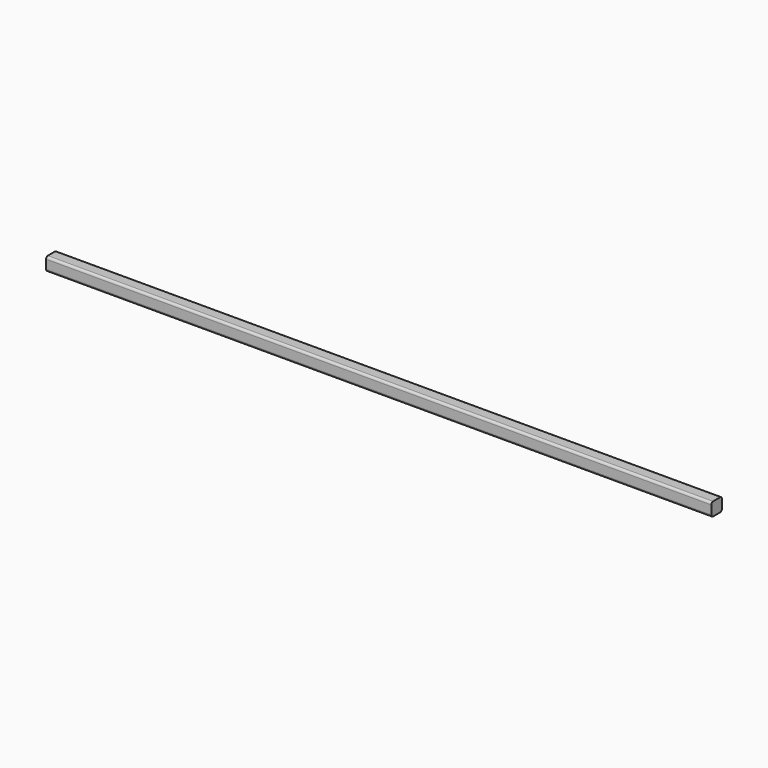
from build123d import *

# Parameters (mm, degrees)
F0_W     = 38.1
F0_H     = 38.1
F1_DEPTH = 953.516
F2_R     = 6.35


with BuildPart() as f1:
    # F0 (on Right) → F1 (new body, symmetric)
    with BuildSketch(Plane.YZ):
        Rectangle(F0_W, F0_H)
    extrude(amount=F1_DEPTH, both=True)

    # F2
    f2_edges = [f1.edges().sort_by_distance(p)[0] for p in [
        (0, -19.05, 19.05),
        (0, 19.05, 19.05),
        (0, 19.05, -19.05),
        (0, -19.05, -19.05),
    ]]
    fillet(f2_edges, radius=F2_R)


solid = f1.part
